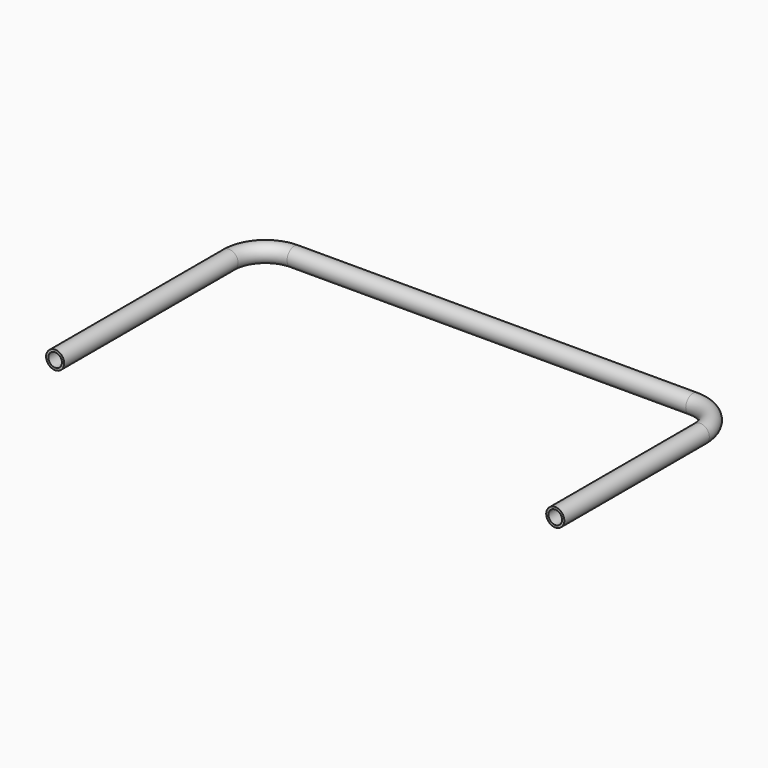
from build123d import *

# Parameters (mm, degrees)
F0_R   = 25.4
F0_R_2 = 19.05


with BuildPart() as f2:
    # F2: sweep along a path in F1
    with BuildLine(Plane.XY) as f2_path:
        Line((0, 0), (0, 609.6))
        ThreePointArc((0, 609.6), (29.757951, 681.442049), (101.6, 711.2))
        Line((101.6, 711.2), (1219.2, 711.2))
        ThreePointArc((1219.2, 711.2), (1291.042049, 681.442049), (1320.8, 609.6))
        Line((1320.8, 609.6), (1320.8, 101.6))
    # F0 (on Front) → F2 (sweep)
    with BuildSketch(Plane.XZ):
        Circle(F0_R)
        Circle(F0_R_2, mode=Mode.SUBTRACT)
    sweep(path=f2_path.line)


solid = f2.part
